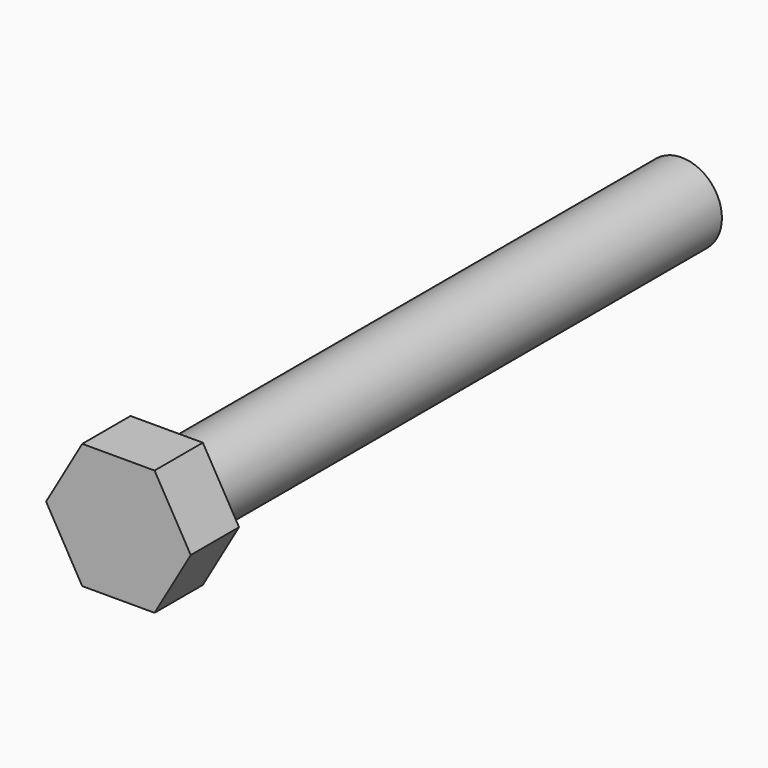
from build123d import *

# Parameters (mm, degrees)
CYLINDER032_R             = 4
CYLINDER032_DEPTH         = 70
PRISM004_DEPTH            = 6
FUSION014_PLACEMENT_ANGLE = 90


with BuildPart() as cilindro032:
    # Cylinder032 → Cylinder032 (new body)
    with BuildSketch(Plane.XY):
        Circle(CYLINDER032_R)
    extrude(amount=CYLINDER032_DEPTH)


with BuildPart() as tornillo_m8:
    # Prism004 → Prism004 (new body)
    with BuildSketch(Plane.XY):
        Polygon((7.19, 0), (3.595, 6.226723), (-3.595, 6.226723), (-7.19, 0), (-3.595, -6.226723), (3.595, -6.226723), align=None)
    extrude(amount=PRISM004_DEPTH)

    # Fusion014: union Cilindro032
    add(cilindro032.part)


with BuildPart() as tornillo_m8_1:
    # Fusion014 placement: moved
    add(tornillo_m8.part.moved(Location((203, -3, 2))).rotate(Axis((203, -3, 2), (-1, 0, 0)), FUSION014_PLACEMENT_ANGLE))


solid = tornillo_m8_1.part
